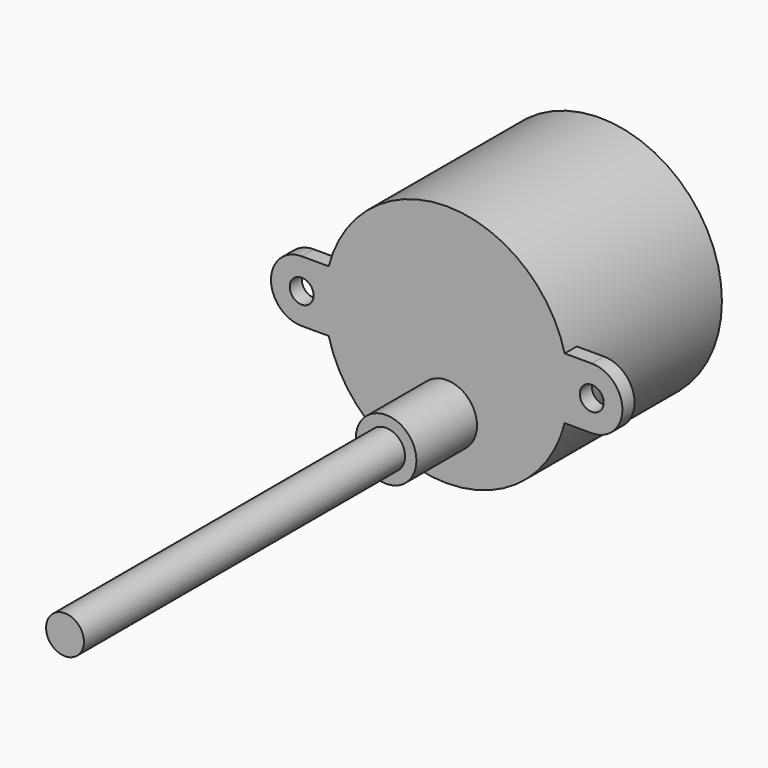
from build123d import *

# Parameters (mm, degrees)
F1_R     = 16.1
F2_DEPTH = 25.3
F3_R     = 1.575
F4_DEPTH = 2
F5_R     = 2.5
F6_DEPTH = 63
F7_R     = 4
F8_DEPTH = 10


with BuildPart() as f2:
    # F1 (on Front) → F2 (new body)
    with BuildSketch(Plane.XZ):
        with Locations((0, 8.1)):
            Circle(F1_R)
    extrude(amount=-F2_DEPTH)

    # F3 (on Front) → F4 (join)
    with BuildSketch(Plane.XZ):
        with BuildLine():
            ThreePointArc((-19.15, 12.15), (-23.2, 8.1), (-19.15, 4.05))
            Line((-19.15, 4.05), (-15.5822816044, 4.05))
            ThreePointArc((-15.5822816044, 4.05), (-16.1, 8.1), (-15.5822816044, 12.15))
            Line((-15.5822816044, 12.15), (-19.15, 12.15))
        make_face()
        with Locations((-19.15, 8.1)):
            Circle(F3_R, mode=Mode.SUBTRACT)
        with BuildLine():
            Line((19.15, 12.15), (15.5822816044, 12.15))
            ThreePointArc((15.5822816044, 12.15), (16.1, 8.1), (15.5822816044, 4.05))
            Line((15.5822816044, 4.05), (19.15, 4.05))
            ThreePointArc((19.15, 4.05), (23.2, 8.1), (19.15, 12.15))
        make_face()
        with Locations((19.15, 8.1)):
            Circle(F3_R, mode=Mode.SUBTRACT)
    extrude(amount=-F4_DEPTH)

    # F5 (on Front) → F6 (join)
    with BuildSketch(Plane.XZ):
        Circle(F5_R)
    extrude(amount=F6_DEPTH)

    # F7 (on face) → F8 (join)
    with BuildSketch(Plane.XZ):
        Circle(F7_R)
    extrude(amount=F8_DEPTH)


solid = f2.part
